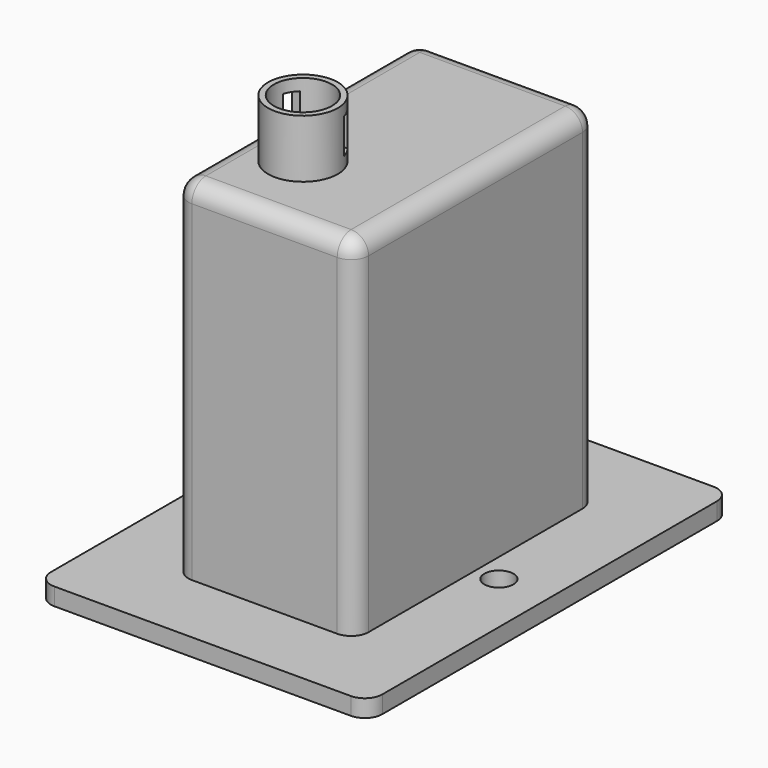
from build123d import *

# Parameters (mm, degrees)
F0_W           = 31
F0_H           = 52
F0_W_2         = 27.5
F0_H_2         = 48
F1_DEPTH       = 60
F0_W_3         = 57
F0_H_3         = 78
F2_DEPTH       = 3
F3_W           = 31
F3_H           = 52
F3_W_2         = 27.5
F3_H_2         = 48
F4_DEPTH       = 3
F5_R           = 5
F6_DEPTH       = 4
F5_R_2         = 6
F7_DEPTH       = 10
F8_R           = 2.5
F9_DEPTH       = 5
F10_R          = 3
F11_W          = 2
F11_H          = 6
F12_DEPTH      = 15
F12_DEPTH_BACK = 15


with BuildPart() as f1:
    # F0 (on Top) → F1 (new body)
    with BuildSketch(Plane.XY):
        with Locations((0.25, 0)):
            Rectangle(F0_W, F0_H)
        Rectangle(F0_W_2, F0_H_2, mode=Mode.SUBTRACT)
    extrude(amount=F1_DEPTH)

    # F0 (on Top) → F2 (join)
    with BuildSketch(Plane.XY):
        Rectangle(F0_W_3, F0_H_3)
        with Locations((0.25, 0)):
            Rectangle(F0_W, F0_H, mode=Mode.SUBTRACT)
    extrude(amount=F2_DEPTH)

    # F3 (on face) → F4 (join)
    with BuildSketch(Plane.XY.offset(60)):
        with Locations((0.25, 0)):
            Rectangle(F3_W, F3_H)
        Rectangle(F3_W_2, F3_H_2, mode=Mode.SUBTRACT)
        Rectangle(F3_W_2, F3_H_2)
    extrude(amount=F4_DEPTH)

    # F5 (on face) → F6 (cut)
    with BuildSketch(Plane.XY.offset(63)):
        with Locations((-4.7345235944, -11.5115633234)):
            Circle(F5_R)
    extrude(amount=-F6_DEPTH, mode=Mode.SUBTRACT)

    # F5 (on face) → F7 (join)
    with BuildSketch(Plane.XY.offset(63)):
        with Locations((-4.7345235944, -11.5115633234)):
            Circle(F5_R_2)
        with Locations((-4.7345235944, -11.5115633234)):
            Circle(F5_R, mode=Mode.SUBTRACT)
    extrude(amount=F7_DEPTH)

    # F8 (on face) → F9 (cut)
    with BuildSketch(Plane.XY):
        with Locations((-20.2327246665, 0)):
            Circle(F8_R)
        with Locations((19.7672753335, 0)):
            Circle(F8_R)
    extrude(amount=F9_DEPTH, mode=Mode.SUBTRACT)

    # F10
    f10_edges = [f1.edges().sort_by_distance(p)[0] for p in [
        (28.5, 39, 1.5),
        (28.5, -39, 1.5),
        (-28.5, 39, 1.5),
        (-28.5, -39, 1.5),
        (-15.25, 26, 33),
        (15.75, 26, 33),
        (-15.25, -26, 33),
        (15.75, -26, 33),
        (15.75, 0, 63),
        (0.25, 26, 63),
        (-15.25, 0, 63),
        (0.25, -26, 63),
    ]]
    fillet(f10_edges, radius=F10_R)

    # F11 (on Right) → F12 (cut, two sides)
    with BuildSketch(Plane.YZ) as f12_sk:
        with Locations((-8.8742363974, 68)):
            Rectangle(F11_W, F11_H)
    extrude(amount=-F12_DEPTH, mode=Mode.SUBTRACT)
    extrude(f12_sk.sketch, amount=F12_DEPTH_BACK, mode=Mode.SUBTRACT)


solid = f1.part
